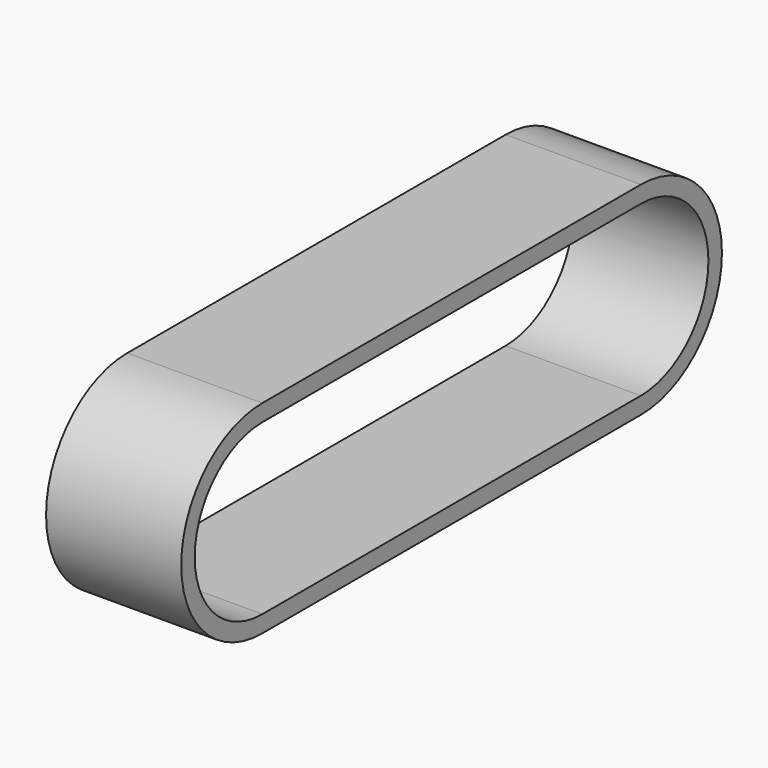
from build123d import *

# Parameters (mm, degrees)
F1_DEPTH = 40


with BuildPart() as f1:
    # F0 (on Right) → F1 (new body)
    with BuildSketch(Plane.YZ):
        with BuildLine():
            ThreePointArc((0, 30), (-30, 0), (0, -30))
            Line((0, -30), (140, -30))
            ThreePointArc((140, -30), (170, 0), (140, 30))
            Line((140, 30), (0, 30))
        make_face()
        with BuildLine():
            ThreePointArc((0, -25), (-25, 0), (0, 25))
            Line((0, 25), (140, 25))
            ThreePointArc((140, 25), (165, 0), (140, -25))
            Line((140, -25), (0, -25))
        make_face(mode=Mode.SUBTRACT)
    extrude(amount=F1_DEPTH)


solid = f1.part
